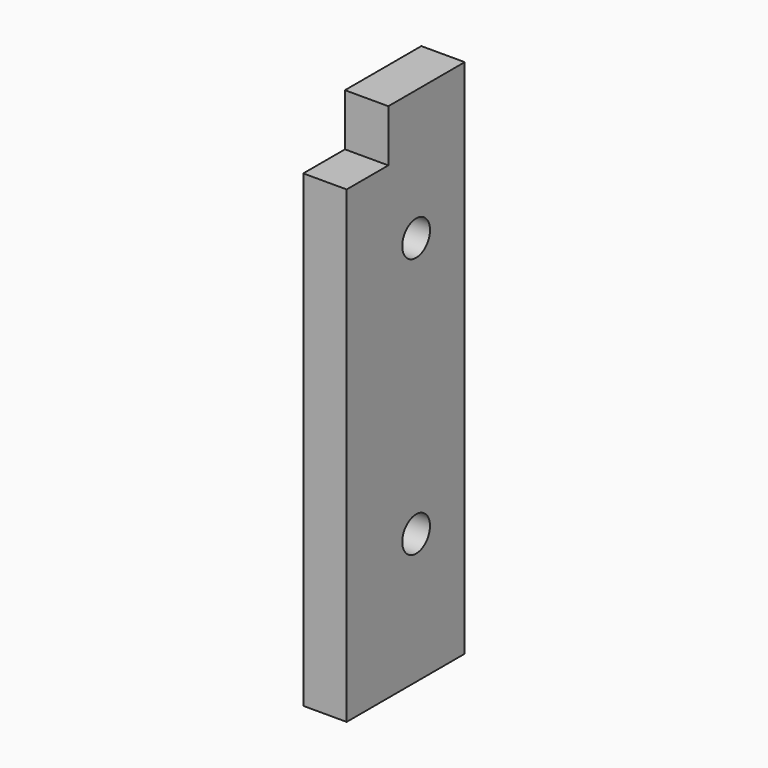
from build123d import *

# Parameters (mm, degrees)
CIRCLE008_R      = 2
EXTRUDE086_DEPTH = 5
CIRCLE006_R      = 2
EXTRUDE089_DEPTH = 5
RECTANGLE066_W   = 6
RECTANGLE066_H   = 6
EXTRUDE080_DEPTH = 7.5
RECTANGLE003_W   = 17
RECTANGLE003_H   = 60
EXTRUDE002_DEPTH = 5


with BuildPart() as extrude086:
    # Circle008 → Extrude086 (new body)
    with BuildSketch(Plane(origin=(-135, 10, 25), x_dir=(0, 1, 0), z_dir=(1, 0, 0))):
        Circle(CIRCLE008_R)
    extrude(amount=-EXTRUDE086_DEPTH)


with BuildPart() as extrude089:
    # Circle006 → Extrude089 (new body)
    with BuildSketch(Plane(origin=(-135, 10, 55), x_dir=(0, 1, 0), z_dir=(1, 0, 0))):
        Circle(CIRCLE006_R)
    extrude(amount=-EXTRUDE089_DEPTH)


with BuildPart() as extrude080:
    # Rectangle066 → Extrude080 (new body)
    with BuildSketch(Plane(origin=(-250, 6, 64), x_dir=(0, -1, 0), z_dir=(-1, 0, 0))):
        with Locations((3, 3)):
            Rectangle(RECTANGLE066_W, RECTANGLE066_H)
    extrude(amount=-EXTRUDE080_DEPTH)


with BuildPart() as extrude080_1:
    # Extrude080 placement: moved
    add(extrude080.part.moved(Location((107.5, 0, 0))))


with BuildPart() as cut009:
    # Rectangle003 → Extrude002 (new body)
    with BuildSketch(Plane(origin=(0, 0, 10), x_dir=(0, 1, 0), z_dir=(1, 0, 0))):
        with Locations((8.5, 30)):
            Rectangle(RECTANGLE003_W, RECTANGLE003_H)
    extrude(amount=EXTRUDE002_DEPTH)


with BuildPart() as cut009_1:
    # Extrude002 placement: moved
    add(cut009.part.moved(Location((-140, 0, 0))))

    # Cut002: cut Extrude080
    add(extrude080_1.part, mode=Mode.SUBTRACT)

    # Cut007: cut Extrude089
    add(extrude089.part, mode=Mode.SUBTRACT)

    # Cut009: cut Extrude086
    add(extrude086.part, mode=Mode.SUBTRACT)


solid = cut009_1.part
